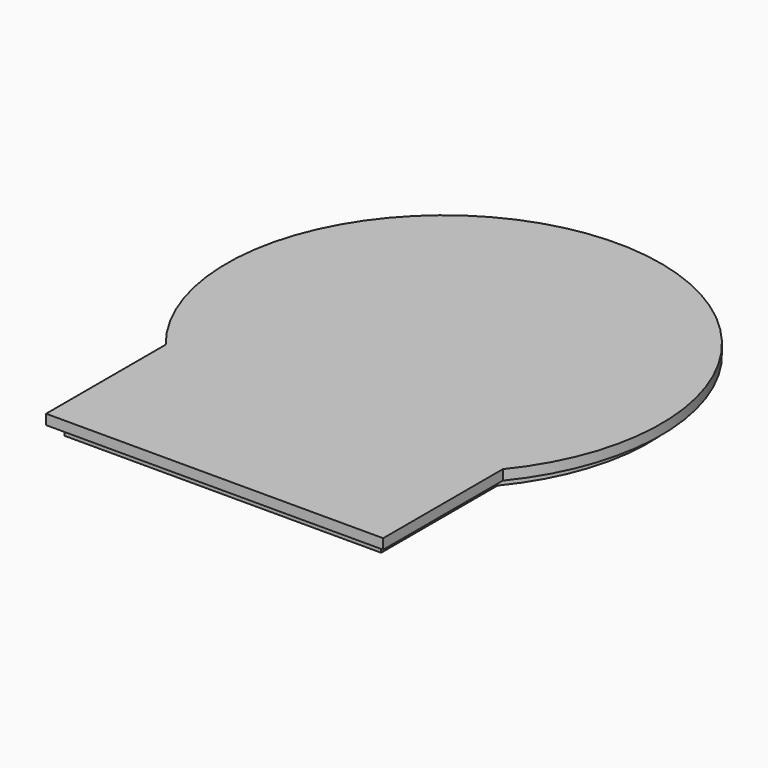
from build123d import *

# Parameters (mm, degrees)
F1_DEPTH = 3
F2_DEPTH = 3


with BuildPart() as f1:
    # F0 (on Top) → F1 (new body)
    with BuildSketch(Plane.XY):
        with BuildLine():
            ThreePointArc((0, 44.3587770077), (-50, 149.4337567297), (-100, 44.3587770077))
            Line((-100, 44.3587770077), (-100, 0))
            Line((-100, 0), (0, 0))
            Line((0, 0), (0, 44.3587770077))
        make_face()
        with BuildLine():
            ThreePointArc((-97, 46.1631766902), (-50, 145.9696551146), (-3, 46.1631766902))
            Line((-3, 46.1631766902), (-3, 3))
            Line((-3, 3), (-97, 3))
            Line((-97, 3), (-97, 46.1631766902))
        make_face(mode=Mode.SUBTRACT)
        with BuildLine():
            Line((-3, 3), (-3, 46.1631766902))
            ThreePointArc((-3, 46.1631766902), (-50, 145.9696551146), (-97, 46.1631766902))
            Line((-97, 46.1631766902), (-97, 3))
            Line((-97, 3), (-3, 3))
        make_face()
    extrude(amount=F1_DEPTH)

    # F0 (on Top) → F2 (join)
    with BuildSketch(Plane.XY):
        with BuildLine():
            Line((-3, 3), (-3, 46.1631766902))
            ThreePointArc((-3, 46.1631766902), (-50, 145.9696551146), (-97, 46.1631766902))
            Line((-97, 46.1631766902), (-97, 3))
            Line((-97, 3), (-3, 3))
        make_face()
    extrude(amount=-F2_DEPTH)


solid = f1.part
